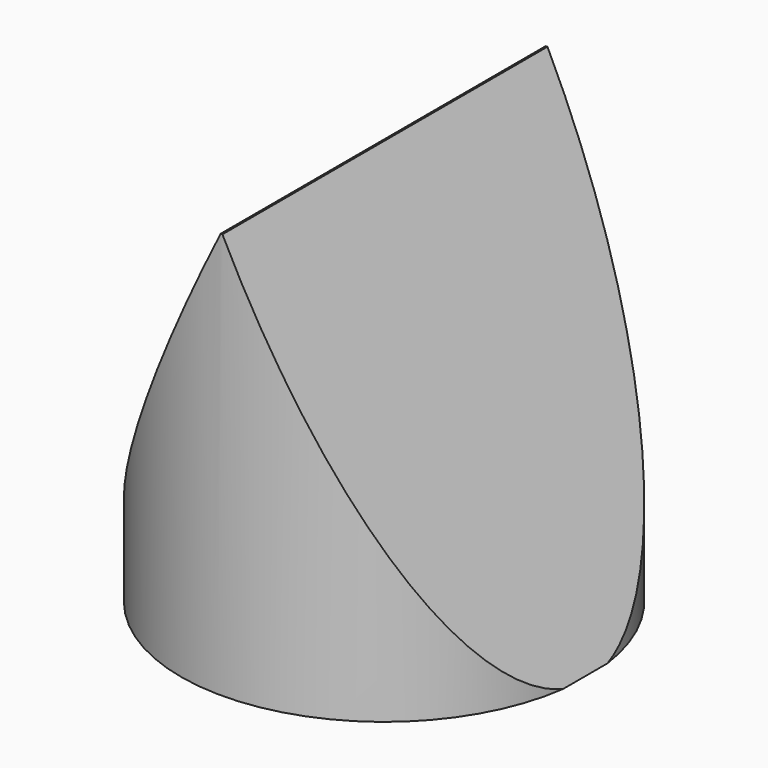
from build123d import *

# Parameters (mm, degrees)
F0_R     = 38.1
F1_DEPTH = 76.2
F3_DEPTH = 71.882
F4_DEPTH = 64.77


with BuildPart() as f1:
    # F0 (on Top) → F1 (new body)
    with BuildSketch(Plane.XY):
        Circle(F0_R)
    extrude(amount=F1_DEPTH)

    # F2 (on Front) → F3 (cut)
    with BuildSketch(Plane.XZ):
        Polygon((-49.077209, 0), (-38.439587, 0), (0, 76.531306), (37.743848, 0), (45.744851, 0), (45.744851, 81.064962), (-51.657092, 81.064962), align=None)
    extrude(amount=F3_DEPTH, mode=Mode.SUBTRACT)

    # F2 (on Front) → F4 (cut)
    with BuildSketch(Plane.XZ):
        Polygon((-49.077209, 0), (-38.439587, 0), (0, 76.531306), (37.743848, 0), (45.744851, 0), (45.744851, 81.064962), (-51.657092, 81.064962), align=None)
    extrude(amount=-F4_DEPTH, mode=Mode.SUBTRACT)


solid = f1.part
